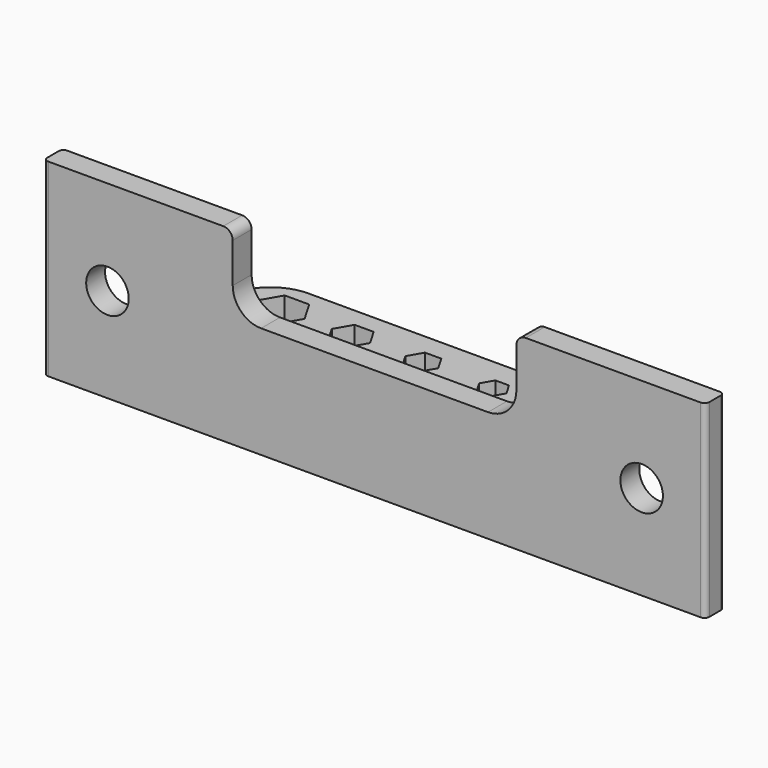
from build123d import *

# Parameters (mm, degrees)
F1_DEPTH = 20
F2_R     = 2.25
F3_DEPTH = 25
F6_DEPTH = 200
F8_DEPTH = 25


with BuildPart() as f1:
    # F0 (on Top) → F1 (new body)
    with BuildSketch(Plane.XY):
        with BuildLine():
            Line((-14.1666658925, 2), (-14.1666658925, 0.5))
            ThreePointArc((-14.1666658925, 0.5), (-14.0202192831, 0.1464466094), (-13.6666658925, 0))
            Line((-13.6666658925, 0), (55.3333341075, 0))
            ThreePointArc((55.3333341075, 0), (55.6868874981, 0.1464466094), (55.8333341075, 0.5))
            Line((55.8333341075, 0.5), (55.8333341075, 2))
            ThreePointArc((55.8333341075, 2), (55.6868874981, 2.3535533906), (55.3333341075, 2.5))
            Line((55.3333341075, 2.5), (42.8333341075, 2.5))
            ThreePointArc((42.8333341075, 2.5), (41.4191205451, 3.0857864376), (40.8333341075, 4.5))
            Line((40.8333341075, 4.5), (40.8333341075, 5))
            ThreePointArc((40.8333341075, 5), (39.3688680134, 8.5355339059), (35.8333341075, 10))
            Line((35.8333341075, 10), (5.8333341075, 10))
            ThreePointArc((5.8333341075, 10), (2.2978002016, 8.5355339059), (0.8333341075, 5))
            Line((0.8333341075, 5), (0.8333341075, 4.5))
            ThreePointArc((0.8333341075, 4.5), (0.2475476699, 3.0857864376), (-1.1666658925, 2.5))
            Line((-1.1666658925, 2.5), (-13.6666658925, 2.5))
            ThreePointArc((-13.6666658925, 2.5), (-14.0202192831, 2.3535533906), (-14.1666658925, 2))
        make_face()
        Polygon((3.2352578961, 6.25), (4.5342960018, 8.5), (7.1323722132, 8.5), (8.4314103188, 6.25), (7.1323722132, 4), (4.5342960018, 4), align=None, mode=Mode.SUBTRACT)
        Polygon((11.3126081653, 6.25), (12.3229711364, 8), (14.3436970786, 8), (15.3540600497, 6.25), (14.3436970786, 4.5), (12.3229711364, 4.5), align=None, mode=Mode.SUBTRACT)
        Polygon((19.1012832999, 6.25), (19.9673087037, 7.75), (21.6993595113, 7.75), (22.5653849151, 6.25), (21.6993595113, 4.75), (19.9673087037, 4.75), align=None, mode=Mode.SUBTRACT)
        Polygon((26.8899584345, 6.25), (27.611646271, 7.5), (29.055021944, 7.5), (29.7767097805, 6.25), (29.055021944, 5), (27.611646271, 5), align=None, mode=Mode.SUBTRACT)
        Polygon((34.6786335691, 6.25), (35.2559838383, 7.25), (36.4106843767, 7.25), (36.9880346459, 6.25), (36.4106843767, 5.25), (35.2559838383, 5.25), align=None, mode=Mode.SUBTRACT)
    extrude(amount=F1_DEPTH)

    # F2 (on face) → F3 (cut)
    with BuildSketch(Plane(origin=(0, 2.5, 0), x_dir=(-1, 0, 0), z_dir=(0, 1, 0))):
        with Locations((7.4166658925, 10)):
            Circle(F2_R)
        with Locations((-49.0833341075, 10)):
            Circle(F2_R)
    extrude(amount=-F3_DEPTH, mode=Mode.SUBTRACT)

    # F5 (on face) → F6 (cut)
    with BuildSketch(Plane(origin=(-14.1666658925, 0, 0), x_dir=(0, -1, 0), z_dir=(-1, 0, 0))):
        with BuildLine():
            Line((-2.5, 12.2343860567), (-2.5, 20))
            Line((-2.5, 20), (-10, 20))
            Line((-10, 20), (-10, 10))
            Line((-10, 10), (-4.5, 10))
            ThreePointArc((-4.5, 10), (-3.1579102698, 10.5129202042), (-2.5, 11.7902009315))
            Line((-2.5, 11.7902009315), (-2.5, 12.2343860567))
        make_face()
    extrude(amount=-F6_DEPTH, mode=Mode.SUBTRACT)

    # F7 (on face) → F8 (cut)
    with BuildSketch(Plane(origin=(0, 2.5, 0), x_dir=(-1, 0, 0), z_dir=(0, 1, 0))):
        with BuildLine():
            Line((-5.8333341075, 20), (-35.8333341075, 20))
            Line((-35.8333341075, 20), (-36.8333341075, 20))
            ThreePointArc((-36.8333341075, 20), (-36.1262273263, 19.7071067812), (-35.8333341075, 19))
            Line((-35.8333341075, 19), (-35.8333341075, 14.7902009315))
            ThreePointArc((-35.8333341075, 14.7902009315), (-34.9546544511, 12.668880588), (-32.8333341075, 11.7902009315))
            Line((-32.8333341075, 11.7902009315), (-8.8333341075, 11.7902009315))
            ThreePointArc((-8.8333341075, 11.7902009315), (-6.7120137639, 12.668880588), (-5.8333341075, 14.7902009315))
            Line((-5.8333341075, 14.7902009315), (-5.8333341075, 19))
            ThreePointArc((-5.8333341075, 19), (-5.5404408887, 19.7071067812), (-4.8333341075, 20))
            Line((-4.8333341075, 20), (-5.8333341075, 20))
        make_face()
    extrude(amount=-F8_DEPTH, mode=Mode.SUBTRACT)


solid = f1.part
